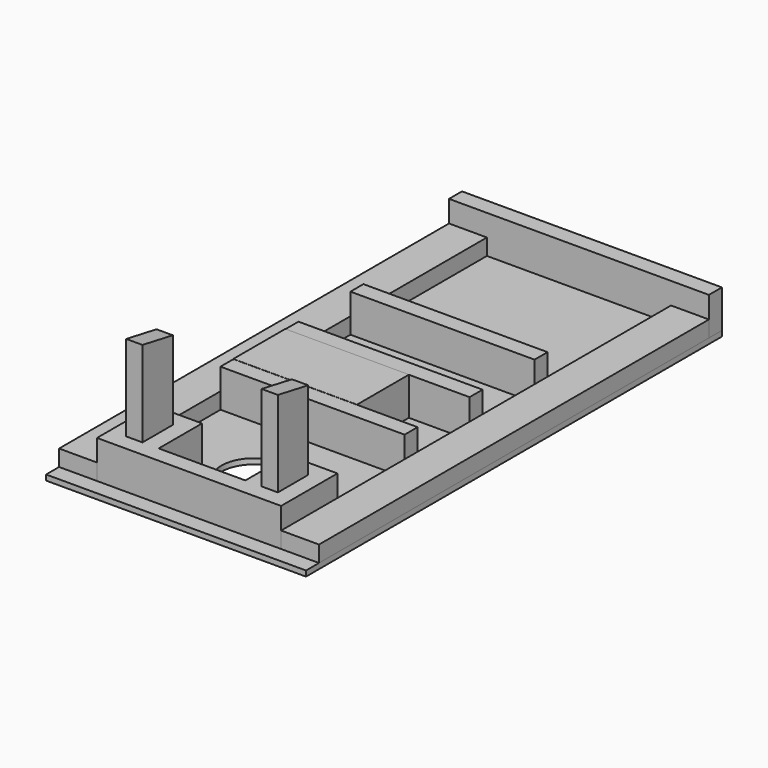
from build123d import *

# Parameters (mm, degrees)
F0_W      = 609.6
F0_H      = 38.1
F1_DEPTH  = 88.9
F2_W      = 88.9
F2_H      = 1143
F3_DEPTH  = 38.1
F4_W      = 38.1
F4_H      = 88.9
F5_DEPTH  = 88.9
F6_W      = 38.1
F6_H      = 88.9
F7_DEPTH  = 290.1696
F9_DEPTH  = 482.601
F10_W     = 609.6
F10_H     = 1219.2
F10_R     = 76.2
F11_DEPTH = 12.7
F12_W     = 431.8
F12_H     = 38.1
F13_DEPTH = 88.9
F14_W     = 290.1696
F14_H     = 152.4
F15_DEPTH = 88.9


with BuildPart() as f1:
    # F0 (on Top) → F1 (new body)
    with BuildSketch(Plane.XY):
        with Locations((304.8, -19.05)):
            Rectangle(F0_W, F0_H)
    extrude(amount=F1_DEPTH)


with BuildPart() as f3:
    # F2 (on Top) → F3 (new body)
    with BuildSketch(Plane.XY):
        with Locations((44.45, -609.6)):
            Rectangle(F2_W, F2_H)
        with Locations((565.15, -609.6)):
            Rectangle(F2_W, F2_H)
    extrude(amount=F3_DEPTH)


with BuildPart() as f5:
    # F4 (on Top) → F5 (new body)
    with BuildSketch(Plane.XY):
        Polygon((482.6, -1054.1), (520.7, -1054.1), (520.7, -1016), (406.4, -1016), (406.4, -1054.1), (444.5, -1054.1), align=None)
        Polygon((88.9, -1143), (88.9, -1181.1), (520.7, -1181.1), (520.7, -1143), (482.6, -1143), (444.5, -1143), (406.4, -1143), (304.8, -1143), (203.2, -1143), (165.1, -1143), (127, -1143), align=None)
        Polygon((88.9, -1016), (88.9, -1054.1), (127, -1054.1), (165.1, -1054.1), (203.2, -1054.1), (203.2, -1016), align=None)
        with Locations((107.95, -1098.55)):
            Rectangle(F4_W, F4_H)
        with Locations((184.15, -1098.55)):
            Rectangle(F4_W, F4_H)
        with Locations((425.45, -1098.55)):
            Rectangle(F4_W, F4_H)
        with Locations((501.65, -1098.55)):
            Rectangle(F4_W, F4_H)
    extrude(amount=F5_DEPTH)

    # F6 (on face) → F7 (join)
    with BuildSketch(Plane(origin=(0, 0, 0), x_dir=(1, 0, 0), z_dir=(0, 0, -1))):
        with Locations((463.55, 1098.55)):
            Rectangle(F6_W, F6_H)
        with Locations((146.05, 1098.55)):
            Rectangle(F6_W, F6_H)
    extrude(amount=-F7_DEPTH)

    # F8 (on face) → F9 (cut, through all)
    with BuildSketch(Plane.YZ.offset(482.6)):
        Polygon((-1054.1, 273.9898), (-1054.1, 290.1696), (-1143, 290.1696), align=None)
    extrude(amount=-F9_DEPTH, mode=Mode.SUBTRACT)


with BuildPart() as f11:
    # F10 (on face) → F11 (new body)
    with BuildSketch(Plane(origin=(0, 0, 0), x_dir=(1, 0, 0), z_dir=(0, 0, -1))):
        with Locations((304.8, 609.6)):
            Rectangle(F10_W, F10_H)
        with Locations((304.8, 990.6)):
            Circle(F10_R, mode=Mode.SUBTRACT)
    extrude(amount=F11_DEPTH)


with BuildPart() as f13:
    # F12 (on face) → F13 (new body)
    with BuildSketch(Plane.XY):
        with Locations((304.8, -609.6)):
            Rectangle(F12_W, F12_H)
        with Locations((304.8, -419.1)):
            Rectangle(F12_W, F12_H)
        with Locations((304.8, -800.1)):
            Rectangle(F12_W, F12_H)
    extrude(amount=F13_DEPTH)


with BuildPart() as f15:
    # F14 (on face) → F15 (new body)
    with BuildSketch(Plane.XY):
        with Locations((233.182134, -704.367765)):
            Rectangle(F14_W, F14_H)
    extrude(amount=F15_DEPTH)


solid = Compound([f1.part, f3.part, f5.part, f11.part, f13.part, f15.part])
